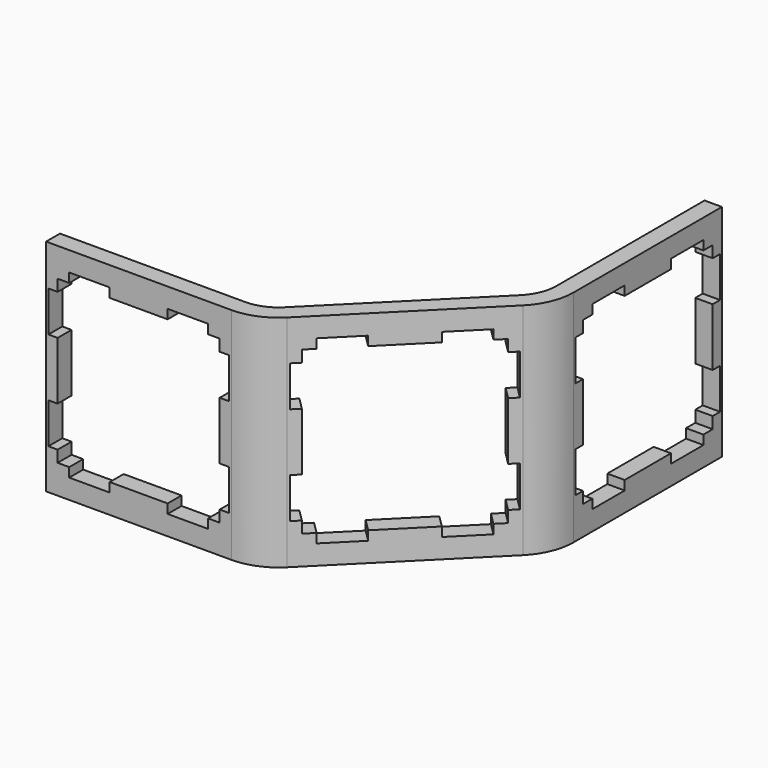
from build123d import *

# Parameters (mm, degrees)
PAD_DEPTH       = 19
POCKET_DEPTH    = 11.62232
POCKET002_DEPTH = 1.501
POCKET003_DEPTH = 1.501


with BuildPart() as part:
    # Sketch → Pad (new body)
    with BuildSketch(Plane.XY):
        with BuildLine():
            Line((0, 0), (16, 0))
            ThreePointArc((16, 0), (17.959845, 0.389838), (19.62132, 1.500001))
            Line((19.62132, 1.500001), (30.935023, 12.813715))
            ThreePointArc((30.935023, 12.813715), (32.045185, 14.475191), (32.435022, 16.435035))
            Line((32.435022, 32.435035), (32.435022, 16.435035))
            Line((30.935022, 32.435035), (32.435022, 32.435035))
            Line((30.935022, 16.435035), (30.935022, 32.435035))
            ThreePointArc((29.874363, 13.874375), (30.659366, 15.049216), (30.935022, 16.435035))
            Line((29.874363, 13.874375), (18.56066, 2.560661))
            ThreePointArc((16, 1.5), (17.385819, 1.775657), (18.56066, 2.560661))
            Line((16, 1.5), (0, 1.5))
            Line((0, 1.5), (0, 0))
        make_face()
    extrude(amount=PAD_DEPTH)

    # Sketch004 → Pocket (cut, through all)
    with BuildSketch(Plane(origin=(8.000009, -8.000001, 0), x_dir=(-0.707106, -0.707107, 0), z_dir=(-0.707107, 0.707106, 0))):
        Polygon((-28.935023, 17.3), (-25.435023, 17.3), (-25.435023, 16.5), (-20.435023, 16.5), (-20.435023, 17.3), (-16.935023, 17.3), (-16.935023, 16.5), (-15.935023, 16.5), (-15.935023, 15.5), (-15.135024, 15.5), (-15.135024, 12), (-15.935023, 12), (-15.935023, 7), (-15.135024, 7), (-15.135024, 3.5), (-15.935023, 3.5), (-15.935023, 2.5), (-16.935023, 2.5), (-16.935023, 1.7), (-20.435023, 1.7), (-20.435023, 2.5), (-25.435023, 2.5), (-25.435023, 1.7), (-28.935023, 1.7), (-28.935023, 2.5), (-29.935023, 2.5), (-29.935023, 3.5), (-30.735024, 3.5), (-30.735024, 7), (-29.935023, 7), (-29.935023, 12), (-30.735024, 12), (-30.735024, 15.5), (-29.935023, 15.5), (-29.935023, 16.5), (-28.935023, 16.5), align=None)
    extrude(amount=-POCKET_DEPTH, mode=Mode.SUBTRACT)

    # Sketch004001 → Pocket002 (cut, through all)
    with BuildSketch(Plane(origin=(30.935022, 0, 0), x_dir=(0, -1, 0), z_dir=(-1, 0, 0))):
        Polygon((-30.435035, 17.3), (-26.935035, 17.3), (-26.935035, 16.5), (-21.935035, 16.5), (-21.935035, 17.3), (-18.435035, 17.3), (-18.435035, 16.5), (-17.435035, 16.5), (-17.435035, 15.5), (-16.635036, 15.5), (-16.635036, 12), (-17.435035, 12), (-17.435035, 7), (-16.635036, 7), (-16.635036, 3.5), (-17.435035, 3.5), (-17.435035, 2.5), (-18.435035, 2.5), (-18.435035, 1.7), (-21.935035, 1.7), (-21.935035, 2.5), (-26.935035, 2.5), (-26.935035, 1.7), (-30.435035, 1.7), (-30.435035, 2.5), (-31.435035, 2.5), (-31.435035, 3.5), (-32.235036, 3.5), (-32.235036, 7), (-31.435035, 7), (-31.435035, 12), (-32.235036, 12), (-32.235036, 15.5), (-31.435035, 15.5), (-31.435035, 16.5), (-30.435035, 16.5), align=None)
    extrude(amount=-POCKET002_DEPTH, mode=Mode.SUBTRACT)

    # Sketch004001001 → Pocket003 (cut, through all)
    with BuildSketch(Plane(origin=(0, 1.5, 0), x_dir=(-1, 0, 0), z_dir=(0, 1, 0))):
        Polygon((-14, 17.3), (-10.5, 17.3), (-10.5, 16.5), (-5.5, 16.5), (-5.5, 17.3), (-2, 17.3), (-2, 16.5), (-1, 16.5), (-1, 15.5), (-0.200001, 15.5), (-0.200001, 12), (-1, 12), (-1, 7), (-0.200001, 7), (-0.200001, 3.5), (-1, 3.5), (-1, 2.5), (-2, 2.5), (-2, 1.7), (-5.5, 1.7), (-5.5, 2.5), (-10.5, 2.5), (-10.5, 1.7), (-14, 1.7), (-14, 2.5), (-15, 2.5), (-15, 3.5), (-15.800001, 3.5), (-15.800001, 7), (-15, 7), (-15, 12), (-15.800001, 12), (-15.800001, 15.5), (-15, 15.5), (-15, 16.5), (-14, 16.5), align=None)
    extrude(amount=-POCKET003_DEPTH, mode=Mode.SUBTRACT)


with BuildPart() as part_1:
    # Clone placement: moved
    add(part.part.moved(Location((2.38, -2.38, 19))))


with BuildPart() as part_2:
    # Clone001 placement: moved
    add(part_1.part.moved(Location((4.75, 4.76, 19))))


with BuildPart() as part_3:
    # Clone002 placement: moved
    add(part_2.part.moved(Location((-2.38, -2.38, 19))))


solid = part_3.part
